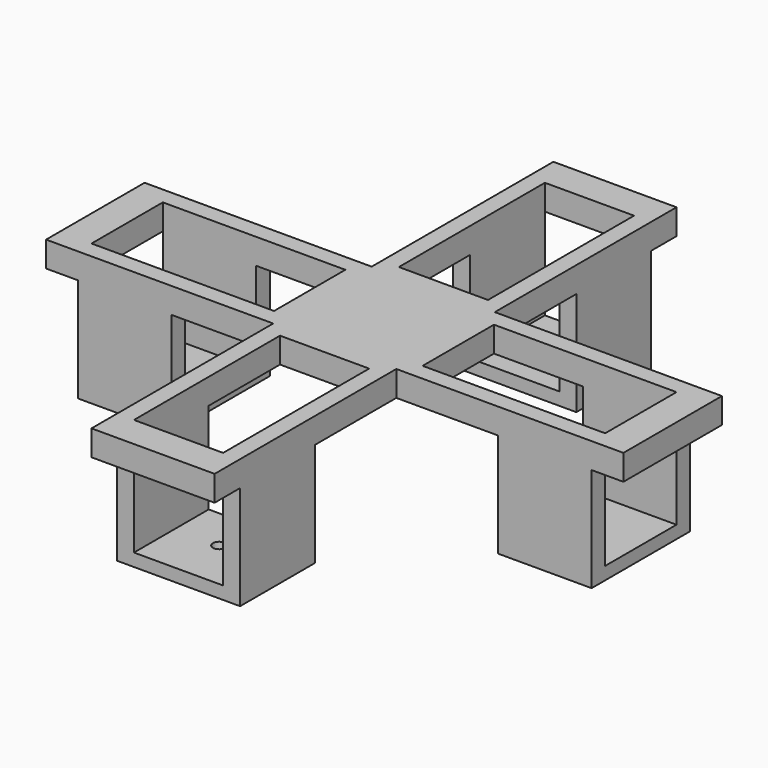
from build123d import *

# Parameters (mm, degrees)
SKETCH_W        = 43
SKETCH_H        = 21
SKETCH_W_2      = 21
SKETCH_H_2      = 43
PAD_DEPTH       = 3
SKETCH001_W     = 4
SKETCH001_H     = 22
SKETCH001_W_2   = 22
SKETCH001_H_2   = 4
PAD001002_DEPTH = 24.5
SKETCH002_W     = 22
SKETCH002_H     = 29
SKETCH002_W_2   = 29
SKETCH002_H_2   = 22
PAD001003_DEPTH = 3
SKETCH003_R     = 1.5
POCKET_DEPTH    = 5


with BuildPart() as part:
    # Sketch → Pad (new body, symmetric)
    with BuildSketch(Plane.XY):
        Polygon((-14.5, 68), (14.5, 68), (14.5, 14.5), (68, 14.5), (68, -14.5), (14.5, -14.5), (14.5, -68), (-14.5, -68), (-14.5, -14.5), (-68, -14.5), (-68, 14.5), (-14.5, 14.5), align=None)
        with Locations((39, 0)):
            Rectangle(SKETCH_W, SKETCH_H, mode=Mode.SUBTRACT)
        with Locations((0, 39)):
            Rectangle(SKETCH_W_2, SKETCH_H_2, mode=Mode.SUBTRACT)
        with Locations((-39, 0)):
            Rectangle(SKETCH_W, SKETCH_H, mode=Mode.SUBTRACT)
        with Locations((0, -39)):
            Rectangle(SKETCH_W_2, SKETCH_H_2, mode=Mode.SUBTRACT)
    extrude(amount=PAD_DEPTH, both=True)

    # Sketch001 → Pad001002 (new body)
    with BuildSketch(Plane(origin=(0, 0, -3), x_dir=(1, 0, 0), z_dir=(0, 0, -1))):
        with Locations((12.5, 49.5)):
            Rectangle(SKETCH001_W, SKETCH001_H)
        with Locations((-12.5, 49.5)):
            Rectangle(SKETCH001_W, SKETCH001_H)
        with Locations((-12.5, -49.5)):
            Rectangle(SKETCH001_W, SKETCH001_H)
        with Locations((12.5, -49.5)):
            Rectangle(SKETCH001_W, SKETCH001_H)
        with Locations((-49.5, 12.5)):
            Rectangle(SKETCH001_W_2, SKETCH001_H_2)
        with Locations((-49.5, -12.5)):
            Rectangle(SKETCH001_W_2, SKETCH001_H_2)
        with Locations((49.5, -12.5)):
            Rectangle(SKETCH001_W_2, SKETCH001_H_2)
        with Locations((49.5, 12.5)):
            Rectangle(SKETCH001_W_2, SKETCH001_H_2)
    extrude(amount=PAD001002_DEPTH)

    # Sketch002 → Pad001003 (new body)
    with BuildSketch(Plane(origin=(0, 0, -27.5), x_dir=(1, 0, 0), z_dir=(0, 0, -1))):
        with Locations((-49.5, 0)):
            Rectangle(SKETCH002_W, SKETCH002_H)
        with Locations((0, 49.5)):
            Rectangle(SKETCH002_W_2, SKETCH002_H_2)
        with Locations((49.5, 0)):
            Rectangle(SKETCH002_W, SKETCH002_H)
        with Locations((0, -49.5)):
            Rectangle(SKETCH002_W_2, SKETCH002_H_2)
    extrude(amount=-PAD001003_DEPTH)

    # Sketch003 → Pocket (cut)
    with BuildSketch(Plane(origin=(0, 0, -27.5), x_dir=(1, 0, 0), z_dir=(0, 0, -1))):
        with Locations((0, -48.5)):
            Circle(SKETCH003_R)
        with Locations((-48.5, 0)):
            Circle(SKETCH003_R)
        with Locations((0, 48.5)):
            Circle(SKETCH003_R)
        with Locations((48.5, 0)):
            Circle(SKETCH003_R)
    extrude(amount=-POCKET_DEPTH, mode=Mode.SUBTRACT)


solid = part.part
